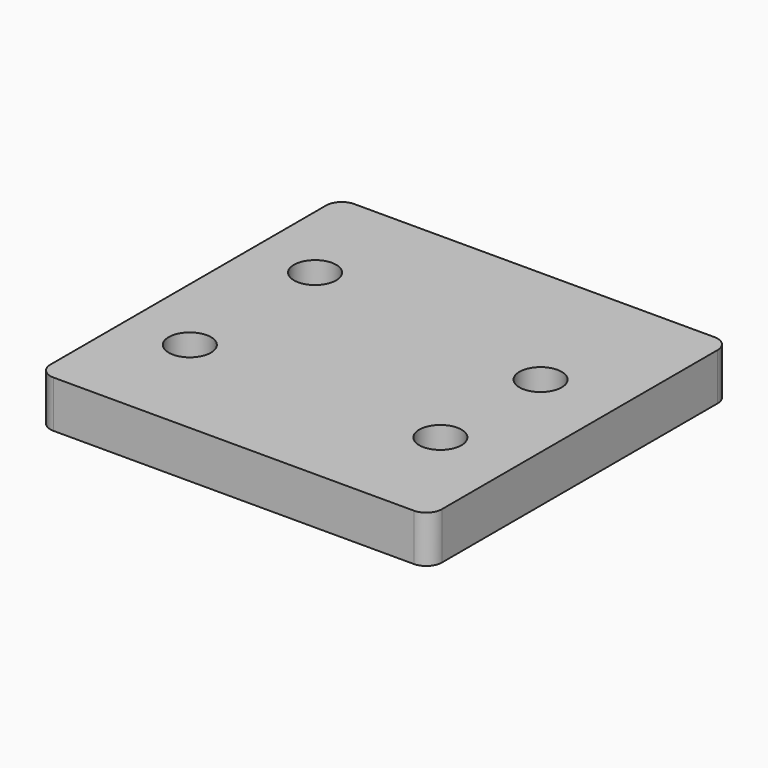
from build123d import *

# Parameters (mm, degrees)
SKETCH_W  = 25
SKETCH_H  = 24
SKETCH_R  = 1.35
PAD_DEPTH = 3
FILLET_R  = 1


with BuildPart() as part:
    # Sketch → Pad (new body)
    with BuildSketch(Plane.XY):
        with Locations((12.5, 12)):
            Rectangle(SKETCH_W, SKETCH_H)
        with Locations((4.1, 17)):
            Circle(SKETCH_R, mode=Mode.SUBTRACT)
        with Locations((20.1, 15)):
            Circle(SKETCH_R, mode=Mode.SUBTRACT)
        with Locations((4.1, 7)):
            Circle(SKETCH_R, mode=Mode.SUBTRACT)
        with Locations((20.1, 7)):
            Circle(SKETCH_R, mode=Mode.SUBTRACT)
    extrude(amount=PAD_DEPTH)

    # Fillet
    fillet_edges = [part.edges().sort_by_distance(p)[0] for p in [
        (0, 0, 1.5),
        (25, 0, 1.5),
        (25, 24, 1.5),
        (0, 24, 1.5),
    ]]
    fillet(fillet_edges, radius=FILLET_R)


solid = part.part
